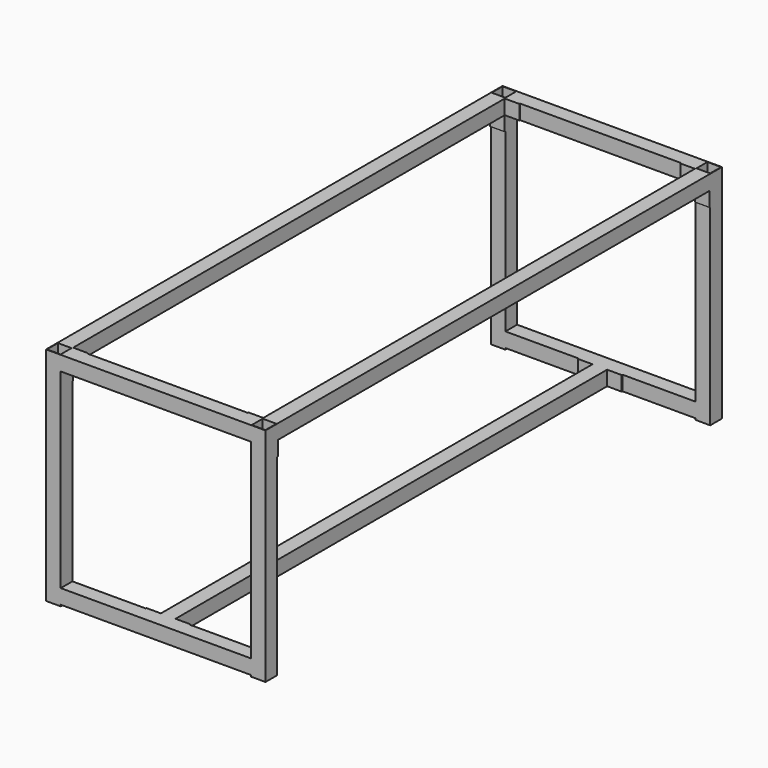
from build123d import *

# Parameters (mm, degrees)
F0_W     = 50
F0_H     = 50
F0_W_2   = 46.8
F0_H_2   = 46.8
F1_DEPTH = 757
F2_W     = 50
F2_H     = 50
F2_W_2   = 46.8
F2_H_2   = 46.8
F3_DEPTH = 325
F4_W     = 75
F4_H     = 50
F5_DEPTH = 3
F6_W     = 50
F6_H     = 50
F6_W_2   = 46.8
F6_H_2   = 46.8
F7_DEPTH = 922
F9_DEPTH = 922


with BuildPart() as f1:
    # F0 (on Top) → F1 (new body)
    with BuildSketch(Plane.XY):
        with Locations((-25, 41.517847)):
            Rectangle(F0_W, F0_H)
        with Locations((-25, 41.517847)):
            Rectangle(F0_W_2, F0_H_2, mode=Mode.SUBTRACT)
    extrude(amount=F1_DEPTH)

    # F2 (on face) → F3 (join)
    with BuildSketch(Plane.YZ):
        with Locations((41.517847, 732)):
            Rectangle(F2_W, F2_H)
        with Locations((41.517847, 732)):
            Rectangle(F2_W_2, F2_H_2, mode=Mode.SUBTRACT)
        with Locations((41.517847, 30)):
            Rectangle(F2_W, F2_H)
        with Locations((41.517847, 30)):
            Rectangle(F2_W_2, F2_H_2, mode=Mode.SUBTRACT)
    extrude(amount=F3_DEPTH)

    # F4 (on face) → F5 (join)
    with BuildSketch(Plane.XZ.offset(-16.517847)):
        Polygon((50, 757), (-50, 757), (-50, 657), (0, 657), (0, 707), (50, 707), align=None)
        with Locations((287.5, 30)):
            Rectangle(F4_W, F4_H)
    extrude(amount=F5_DEPTH)

    # F6 (on face) → F7 (join)
    with BuildSketch(Plane.XZ.offset(-13.517847)):
        with Locations((-25, 732)):
            Rectangle(F6_W, F6_H)
        with Locations((-25, 732)):
            Rectangle(F6_W_2, F6_H_2, mode=Mode.SUBTRACT)
    extrude(amount=F7_DEPTH)

    # F8 (on face) → F9 (join)
    with BuildSketch(Plane.XZ.offset(-13.517847)):
        Polygon((325, 53.4), (325, 55), (300, 55), (300, 5), (325, 5), (325, 6.6), (301.6, 6.6), (301.6, 53.4), align=None)
    extrude(amount=F9_DEPTH)

    # F10: F1 across face


with BuildPart() as f1_1:
    add(f1.part)
    add(f1.part.mirror(Plane(origin=(325, -382.720488, 30), x_dir=(0, 1, 0), z_dir=(1, 0, 0))))

    # F11: F1 across face


with BuildPart() as f1_2:
    add(f1_1.part)
    add(f1_1.part.mirror(Plane(origin=(325, -908.482153, 30), x_dir=(1, 0, 0), z_dir=(0, -1, 0))))


solid = f1_2.part
